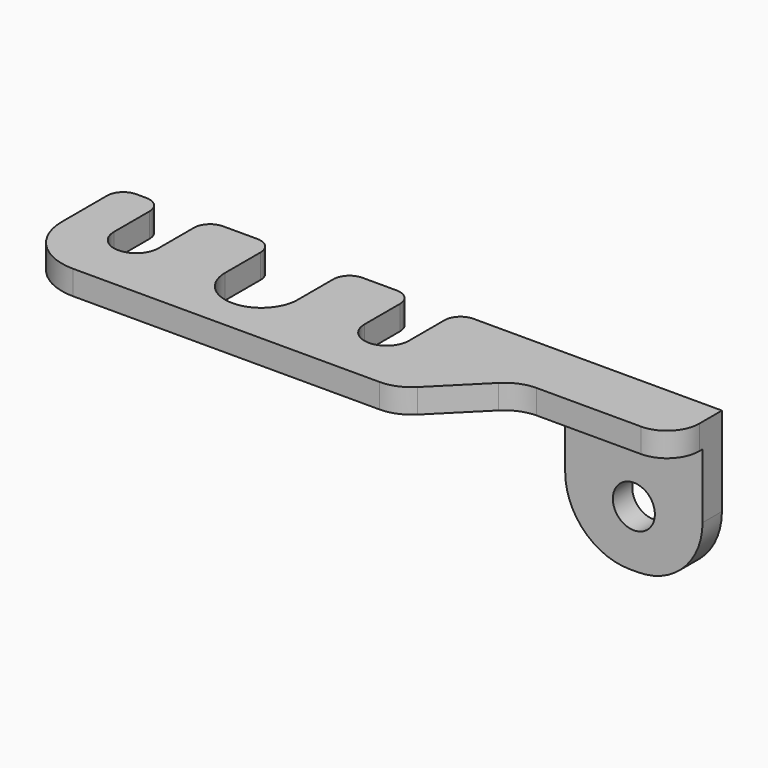
from build123d import *

# Parameters (mm, degrees)
PAD_DEPTH    = 3
SKETCH001_W  = 17
SKETCH001_H  = 3
PAD001_DEPTH = 16
SKETCH002_R  = 2.6
POCKET_DEPTH = 3.001
FILLET_R     = 8
FILLET002_R  = 7
FILLET003_R  = 4
FILLET004_R  = 5
FILLET005_R  = 2


with BuildPart() as part:
    # Sketch → Pad (new body)
    with BuildSketch(Plane.XY):
        with BuildLine():
            ThreePointArc((-4.5, 0), (0, -4.5), (4.5, 0))
            Line((4.5, 0), (4.5, 7.5))
            Line((4.5, 7.5), (12.75, 7.5))
            Line((12.75, 0), (12.75, 7.5))
            ThreePointArc((12.75, 0), (15.5, -2.75), (18.25, 0))
            Line((18.25, 0), (18.25, 7.5))
            Line((18.25, 7.5), (51, 7.5))
            Line((51, 0), (51, 7.5))
            Line((32, 0), (51, 0))
            Line((23.5, -8.5), (32, 0))
            Line((-23.5, -8.5), (23.5, -8.5))
            Line((-23.5, 7.5), (-23.5, -8.5))
            Line((-23.5, 7.5), (-18.25, 7.5))
            Line((-18.25, 0), (-18.25, 7.5))
            ThreePointArc((-18.25, 0), (-15.5, -2.75), (-12.75, 0))
            Line((-12.75, 0), (-12.75, 7.5))
            Line((-12.75, 7.5), (-4.5, 7.5))
            Line((-4.5, 0), (-4.5, 7.5))
        make_face()
    extrude(amount=PAD_DEPTH)

    # Sketch001 (on Face19 of Pad) → Pad001 (join)
    with BuildSketch(Plane(origin=(0, 0, 0), x_dir=(1, 0, 0), z_dir=(0, 0, -1))):
        with Locations((42.5, -6)):
            Rectangle(SKETCH001_W, SKETCH001_H)
    extrude(amount=PAD001_DEPTH)

    # Sketch002 (on Face13 of Pad001) → Pocket (cut, through all)
    with BuildSketch(Plane.XZ.offset(-4.5)):
        with Locations((42.5, -9)):
            Circle(SKETCH002_R)
    extrude(amount=-POCKET_DEPTH, mode=Mode.SUBTRACT)

    # Fillet
    fillet_edges = [part.edges().sort_by_distance(p)[0] for p in [
        (34, 6, -16),
        (51, 6, -16),
    ]]
    fillet(fillet_edges, radius=FILLET_R)

    # Fillet002
    fillet002_edges = [part.edges().sort_by_distance(p)[0] for p in [
        (-23.5, -8.5, 1.5),
    ]]
    fillet(fillet002_edges, radius=FILLET002_R)

    # Fillet003
    fillet003_edges = [part.edges().sort_by_distance(p)[0] for p in [
        (51, 0, 1.5),
    ]]
    fillet(fillet003_edges, radius=FILLET003_R)

    # Fillet004
    fillet004_edges = [part.edges().sort_by_distance(p)[0] for p in [
        (23.5, -8.5, 1.5),
        (32, 0, 1.5),
    ]]
    fillet(fillet004_edges, radius=FILLET004_R)

    # Fillet005
    fillet005_edges = [part.edges().sort_by_distance(p)[0] for p in [
        (-23.5, 7.5, 1.5),
        (-18.25, 7.5, 1.5),
        (-12.75, 7.5, 1.5),
        (-4.5, 7.5, 1.5),
        (4.5, 7.5, 1.5),
        (12.75, 7.5, 1.5),
        (18.25, 7.5, 1.5),
    ]]
    fillet(fillet005_edges, radius=FILLET005_R)


solid = part.part
